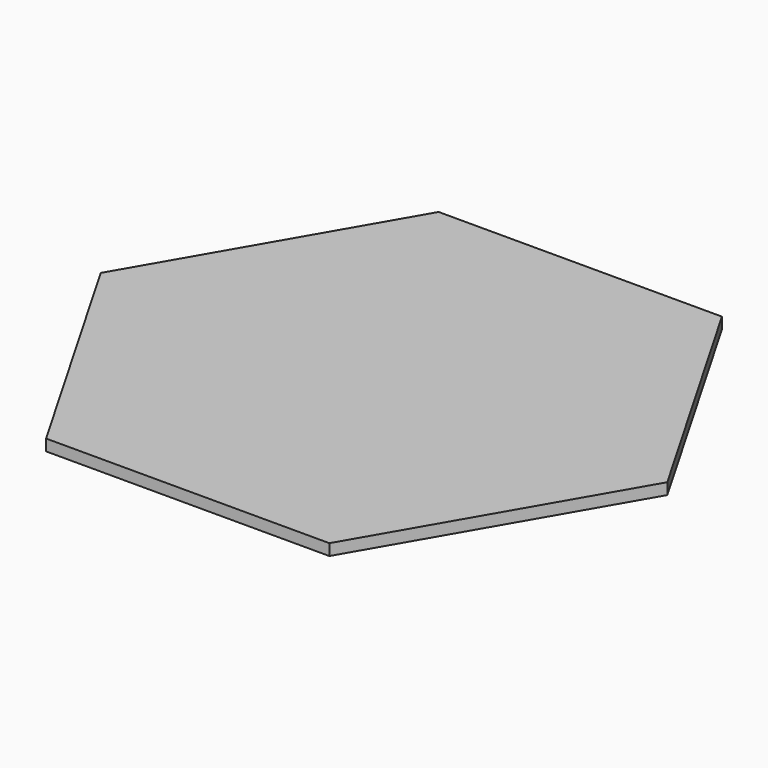
from build123d import *

# Parameters (mm, degrees)
PAD_DEPTH = 4


with BuildPart() as part:
    # Sketch → Pad (new body)
    with BuildSketch(Plane.XY):
        Polygon((-50, 0), (0, 86.60254), (-50, 173.205081), (-150, 173.205081), (-200, 86.60254), (-150, 0), align=None)
    extrude(amount=PAD_DEPTH)


solid = part.part
